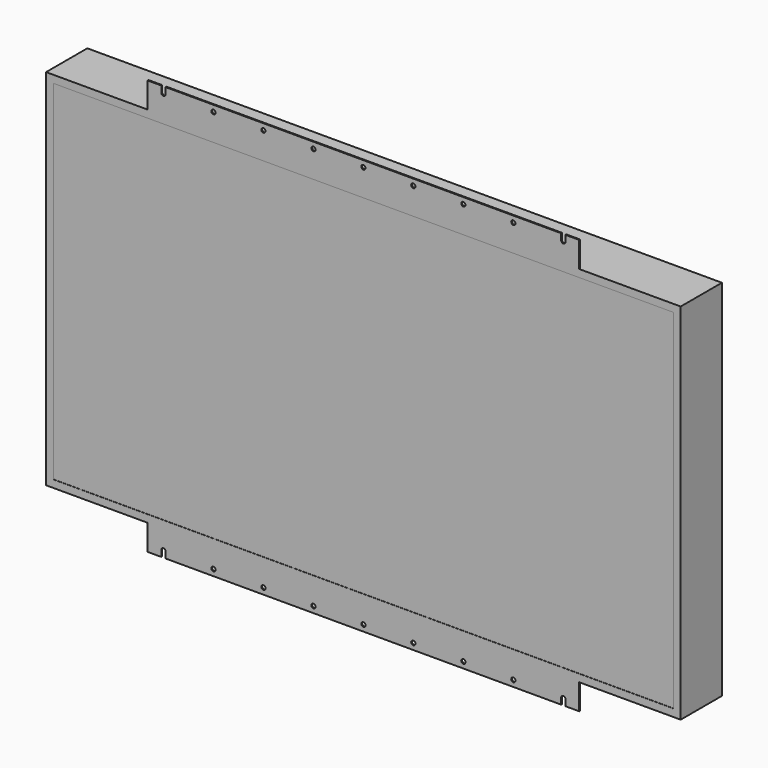
from build123d import *

# Parameters (mm, degrees)
F0_W     = 952.1952
F0_H     = 545.7952
F1_DEPTH = 77.343
F2_R     = 3.175
F3_DEPTH = 1.5875
F6_W     = 930.2496
F6_H     = 523.2654
F7_DEPTH = 0.254


with BuildPart() as f1:
    # F0 (on Front) → F1 (new body)
    with BuildSketch(Plane.XZ):
        with Locations((-462.4471531919, 246.4511793006)):
            Rectangle(F0_W, F0_H)
    extrude(amount=F1_DEPTH)

    # F2 (on face) → F3 (join)
    with BuildSketch(Plane.XZ.offset(77.343)):
        with BuildLine():
            Line((-765.6215531919, 557.7789793006), (-786.2971531919, 557.7789793006))
            Line((-786.2971531919, 557.7789793006), (-786.2971531919, 519.3487793006))
            Line((-786.2971531919, 519.3487793006), (-138.5971531919, 519.3487793006))
            Line((-138.5971531919, 519.3487793006), (-138.5971531919, 557.7789793006))
            Line((-138.5971531919, 557.7789793006), (-159.2727531919, 557.7789793006))
            Line((-159.2727531919, 557.7789793006), (-159.2727531919, 548.4063793006))
            ThreePointArc((-159.2727531919, 548.4063793006), (-162.4477531919, 545.2313793006), (-165.6227531919, 548.4063793006))
            Line((-165.6227531919, 548.4063793006), (-165.6227531919, 557.7789793006))
            Line((-165.6227531919, 557.7789793006), (-462.4471531919, 557.7789793006))
            Line((-462.4471531919, 557.7789793006), (-462.4471531919, 551.5813793006))
            ThreePointArc((-462.4471531919, 551.5813793006), (-460.2020891616, 550.6514433309), (-459.2721531919, 548.4063793006))
            ThreePointArc((-459.2721531919, 548.4063793006), (-462.4471531919, 545.2313793006), (-465.6221531919, 548.4063793006))
            Line((-465.6221531919, 548.4063793006), (-534.2021531919, 548.4063793006))
            ThreePointArc((-534.2021531919, 548.4063793006), (-537.3771531919, 545.2313793006), (-540.5521531919, 548.4063793006))
            Line((-540.5521531919, 548.4063793006), (-609.2845531919, 548.4063793006))
            ThreePointArc((-609.2845531919, 548.4063793006), (-612.4595531919, 545.2313793006), (-615.6345531919, 548.4063793006))
            Line((-615.6345531919, 548.4063793006), (-684.2907531919, 548.4063793006))
            ThreePointArc((-684.2907531919, 548.4063793006), (-687.4657531919, 545.2313793006), (-690.6407531919, 548.4063793006))
            Line((-690.6407531919, 548.4063793006), (-759.2715531919, 548.4063793006))
            ThreePointArc((-759.2715531919, 548.4063793006), (-762.4465531919, 545.2313793006), (-765.6215531919, 548.4063793006))
            Line((-765.6215531919, 548.4063793006), (-765.6215531919, 557.7789793006))
        make_face()
        with Locations((-387.5171531919, 548.4063793006)):
            Circle(F2_R, mode=Mode.SUBTRACT)
        with Locations((-312.4347531919, 548.4063793006)):
            Circle(F2_R, mode=Mode.SUBTRACT)
        with Locations((-237.4285531919, 548.4063793006)):
            Circle(F2_R, mode=Mode.SUBTRACT)
        with BuildLine():
            Line((-462.4471531919, 557.7789793006), (-759.2715531919, 557.7789793006))
            Line((-759.2715531919, 557.7789793006), (-759.2715531919, 548.4063793006))
            Line((-759.2715531919, 548.4063793006), (-690.6407531919, 548.4063793006))
            ThreePointArc((-690.6407531919, 548.4063793006), (-687.4657531919, 551.5813793006), (-684.2907531919, 548.4063793006))
            Line((-684.2907531919, 548.4063793006), (-615.6345531919, 548.4063793006))
            ThreePointArc((-615.6345531919, 548.4063793006), (-612.4595531919, 551.5813793006), (-609.2845531919, 548.4063793006))
            Line((-609.2845531919, 548.4063793006), (-540.5521531919, 548.4063793006))
            ThreePointArc((-540.5521531919, 548.4063793006), (-537.3771531919, 551.5813793006), (-534.2021531919, 548.4063793006))
            Line((-534.2021531919, 548.4063793006), (-465.6221531919, 548.4063793006))
            ThreePointArc((-465.6221531919, 548.4063793006), (-464.6922172221, 550.6514433309), (-462.4471531919, 551.5813793006))
            Line((-462.4471531919, 551.5813793006), (-462.4471531919, 557.7789793006))
        make_face()
    extrude(amount=-F3_DEPTH)

    # F5: F1 across plane


with BuildPart() as f1_1:
    add(f1.part)
    add(f1.part.mirror(Plane(origin=(-462.4471531919, -38.6715, 246.4511793006), x_dir=(1, 0, 0), z_dir=(0, 0, -1))))

    # F6 (on face) → F7 (cut)
    with BuildSketch(Plane.XZ.offset(77.343)):
        with Locations((-462.4471531919, 246.4511793006)):
            Rectangle(F6_W, F6_H)
    extrude(amount=-F7_DEPTH, mode=Mode.SUBTRACT)


solid = f1_1.part
